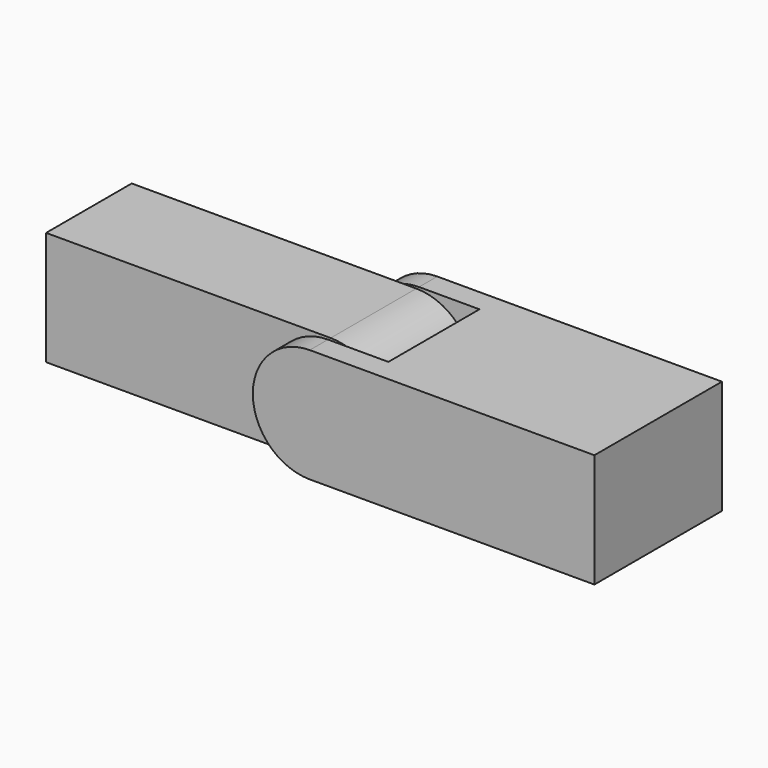
from build123d import *

# Parameters (mm, degrees)
F1_DEPTH = 14
F2_W     = 10.4
F2_H     = 10
F3_DEPTH = 10.001
F4_R     = 1.5
F5_DEPTH = 12
F7_R     = 1.8
F8_DEPTH = 9.4


with BuildPart() as f1:
    # F0 (on Front) → F1 (new body)
    with BuildSketch(Plane.XZ):
        with BuildLine():
            Line((-25, 0), (0, 0))
            Line((0, 0), (0, 10))
            Line((0, 10), (-25, 10))
            ThreePointArc((-25, 10), (-28.5355339059, 8.5355339059), (-30, 5))
            ThreePointArc((-30, 5), (-28.5355339059, 1.4644660941), (-25, 0))
        make_face()
    extrude(amount=F1_DEPTH)

    # F2 (on face) → F3 (cut, through all)
    with BuildSketch(Plane.XY.offset(10)):
        with Locations((-24.8957956722, -7)):
            Rectangle(F2_W, F2_H)
    extrude(amount=-F3_DEPTH, mode=Mode.SUBTRACT)

    # F4 (on face) → F5 (join, through all)
    with BuildSketch(Plane(origin=(0, 0, 0), x_dir=(-1, 0, 0), z_dir=(0, 1, 0))):
        with Locations((25, 5)):
            Circle(F4_R)
    extrude(amount=-F5_DEPTH)


with BuildPart() as f8:
    # F7 (on offset) → F8 (new body)
    with BuildSketch(Plane(origin=(0, -2.3, 0), x_dir=(-1, 0, 0), z_dir=(0, 1, 0))):
        with BuildLine():
            Line((50, 10), (25, 10))
            ThreePointArc((25, 10), (20, 5), (25, 0))
            Line((25, 0), (50, 0))
            Line((50, 0), (50, 10))
        make_face()
        with Locations((25, 5)):
            Circle(F7_R, mode=Mode.SUBTRACT)
    extrude(amount=-F8_DEPTH)


solid = Compound([f1.part, f8.part])
